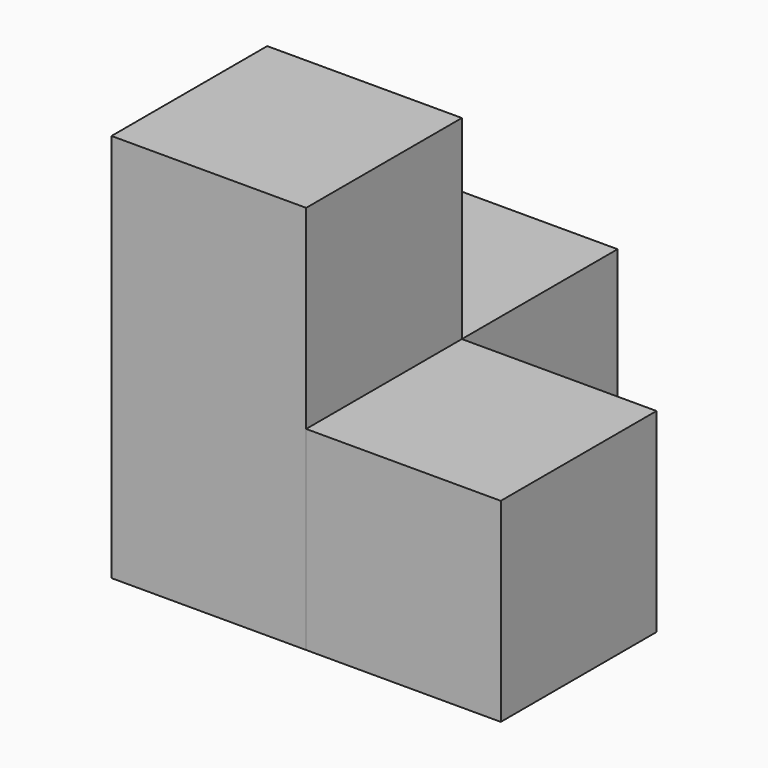
from build123d import *

# Parameters (mm, degrees)
BOX_W        = 10
BOX_H        = 10
BOX_DEPTH    = 20
BOX001_W     = 10
BOX001_H     = 10
BOX001_DEPTH = 10
BOX002_W     = 10
BOX002_H     = 10
BOX002_DEPTH = 10


with BuildPart() as cube:
    # Box → Box (new body)
    with BuildSketch(Plane.XY):
        with Locations((5, 5)):
            Rectangle(BOX_W, BOX_H)
    extrude(amount=BOX_DEPTH)


with BuildPart() as cube001:
    # Box001 → Box001 (new body)
    with BuildSketch(Plane(origin=(10, 0, 0), x_dir=(1, 0, 0), z_dir=(0, 0, 1))):
        with Locations((5, 5)):
            Rectangle(BOX001_W, BOX001_H)
    extrude(amount=BOX001_DEPTH)


with BuildPart() as cube002:
    # Box002 → Box002 (new body)
    with BuildSketch(Plane(origin=(0, 10, 0), x_dir=(1, 0, 0), z_dir=(0, 0, 1))):
        with Locations((5, 5)):
            Rectangle(BOX002_W, BOX002_H)
    extrude(amount=BOX002_DEPTH)


solid = Compound([cube.part, cube001.part, cube002.part])
